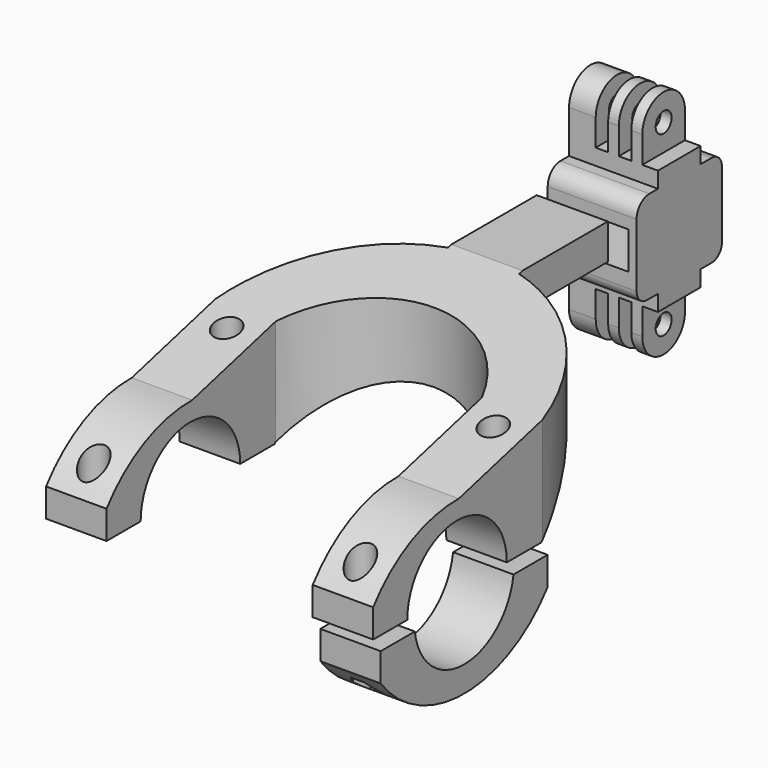
from build123d import *

# Parameters (mm, degrees)
PAD001_DEPTH    = 46
PAD002_DEPTH    = 46
POCKET002_DEPTH = 40
SKETCH004_R     = 2.3
POCKET003_DEPTH = 25
SKETCH005_R     = 3.7
POCKET004_DEPTH = 35
SKETCH014_R     = 3.7
POCKET010_DEPTH = 12
PAD_DEPTH       = 17
POCKET_DEPTH    = 25
SKETCH002_R     = 2.3
POCKET001_DEPTH = 5
SKETCH008_R     = 2.8
PAD003_DEPTH    = 12.5
SKETCH015_W     = 20.5
SKETCH015_H     = 10.5
SKETCH015_W_2   = 3.5
SKETCH015_H_2   = 15
SKETCH015_W_3   = 15
POCKET011_DEPTH = 15
POCKET012_DEPTH = 3.5


with BuildPart() as obj1:
    # Sketch003 → Pad001 (new body, symmetric)
    with BuildSketch(Plane.YZ):
        with BuildLine():
            ThreePointArc((17.5, 0), (0, 17.5), (-17.5, 0))
            Line((-17.5, 0), (-29.5, 0))
            Line((-29.5, 0), (-29.5, 8))
            ThreePointArc((29.5, 8), (0, 22.667289), (-29.5, 8))
            Line((29.5, 0), (29.5, 8))
            Line((17.5, 0), (29.5, 0))
        make_face()
    extrude(amount=PAD001_DEPTH, both=True)

    # Sketch006 → Pad002 (join, symmetric)
    with BuildSketch(Plane.YZ):
        Polygon((0, 22.5), (29.5, 0), (68, 30), (98, 30), (98, 40), (68, 40), align=None)
    extrude(amount=PAD002_DEPTH, both=True)

    # Sketch007 → Pocket002 (cut)
    with BuildSketch(Plane.XY.offset(40)):
        with BuildLine():
            Line((29, 30), (29, -29.5))
            Line((29, -29.5), (-29, -29.5))
            Line((-29, -29.5), (-29, 30))
            ThreePointArc((29, 30), (0, 49.38471), (-29, 30))
        make_face()
        with BuildLine():
            ThreePointArc((46, 30), (33.502708, 53.780613), (10, 66.793013))
            Line((10, 66.793013), (10, 95))
            Line((10, 95), (10, 103))
            Line((10, 103), (46, 103))
            Line((46, 103), (46, 30))
        make_face()
        with BuildLine():
            Line((-10, 66.793013), (-10, 95))
            Line((-10, 95), (-10, 103))
            Line((-10, 103), (-46, 103))
            Line((-46, 103), (-46, 30))
            ThreePointArc((-10, 66.793013), (-33.502708, 53.780613), (-46, 30))
        make_face()
    extrude(amount=-POCKET002_DEPTH, mode=Mode.SUBTRACT)

    # Sketch004 → Pocket003 (cut)
    with BuildSketch(Plane.XY):
        with Locations((37.5, 23.35)):
            Circle(SKETCH004_R)
        with Locations((37.5, -23.35)):
            Circle(SKETCH004_R)
        with Locations((-37.5, 23.35)):
            Circle(SKETCH004_R)
        with Locations((-37.5, -23.35)):
            Circle(SKETCH004_R)
    extrude(amount=POCKET003_DEPTH, mode=Mode.SUBTRACT)

    # Sketch005 → Pocket004 (cut)
    with BuildSketch(Plane.XY.offset(6)):
        with Locations((-37.5, -23.35)):
            Circle(SKETCH005_R)
        with Locations((37.5, -23.35)):
            Circle(SKETCH005_R)
    extrude(amount=POCKET004_DEPTH, mode=Mode.SUBTRACT)

    # Sketch014 → Pocket010 (cut)
    with BuildSketch(Plane.XY.offset(18)):
        with Locations((-37.5, 23.35)):
            Circle(SKETCH014_R)
        with Locations((37.5, 23.35)):
            Circle(SKETCH014_R)
    extrude(amount=POCKET010_DEPTH, mode=Mode.SUBTRACT)


with BuildPart() as obj2:
    # Sketch → Pad (new body)
    with BuildSketch(Plane.YZ.offset(31)):
        with BuildLine():
            ThreePointArc((-17.35, -2.286373), (0, -17.5), (17.35, -2.286373))
            Line((17.35, -2.286373), (29.35, -2.286373))
            Line((29.35, -2.286373), (29.35, -10.286373))
            ThreePointArc((-29.35, -10.286373), (0, -24.756892), (29.35, -10.286373))
            Line((-29.35, -2.286373), (-29.35, -10.286373))
            Line((-29.35, -2.286373), (-17.35, -2.286373))
        make_face()
    extrude(amount=PAD_DEPTH)

    # Sketch001 → Pocket (cut)
    with BuildSketch(Plane.XY.offset(-7)):
        Polygon((43.6, 23.35), (41.55, 26.900704), (37.45, 26.900704), (35.4, 23.35), (37.45, 19.799296), (41.55, 19.799296), align=None)
        Polygon((43.6, -23.35), (41.55, -19.799296), (37.45, -19.799296), (35.4, -23.35), (37.45, -26.900704), (41.55, -26.900704), align=None)
    extrude(amount=-POCKET_DEPTH, mode=Mode.SUBTRACT)

    # Sketch002 → Pocket001 (cut)
    with BuildSketch(Plane.XY.offset(-2)):
        with Locations((39.5, 23.35)):
            Circle(SKETCH002_R)
        with Locations((39.5, -23.35)):
            Circle(SKETCH002_R)
    extrude(amount=-POCKET001_DEPTH, mode=Mode.SUBTRACT)


with BuildPart() as obj3:
    # Sketch008 → Pad003 (new body, symmetric)
    with BuildSketch(Plane.YZ):
        with BuildLine():
            Line((7.5, 25), (7.5, 13))
            Line((7.5, 13), (11.37695, 13))
            ThreePointArc((15, 9.37695), (13.938833, 11.938833), (11.37695, 13))
            Line((15, 9.37695), (15, -9.413986))
            ThreePointArc((11.413986, -13), (13.949681, -11.949681), (15, -9.413986))
            Line((11.413986, -13), (7.5, -13))
            Line((7.5, -13), (7.5, -25))
            ThreePointArc((-7.5, -25), (0, -32.5), (7.5, -25))
            Line((-7.5, -25), (-7.5, -13))
            Line((-7.5, -13), (-11.323412, -13))
            ThreePointArc((-15, -9.323412), (-13.923152, -11.923152), (-11.323412, -13))
            Line((-15, -9.323412), (-15, 8.497963))
            ThreePointArc((-10.497963, 13), (-13.681384, 11.681384), (-15, 8.497963))
            Line((-10.497963, 13), (-7.5, 13))
            Line((-7.5, 13), (-7.5, 25))
            ThreePointArc((7.5, 25), (0, 32.5), (-7.5, 25))
        make_face()
        with Locations((0, 25)):
            Circle(SKETCH008_R, mode=Mode.SUBTRACT)
        with Locations((0, -25)):
            Circle(SKETCH008_R, mode=Mode.SUBTRACT)
    extrude(amount=PAD003_DEPTH, both=True)

    # Sketch015 → Pocket011 (cut, symmetric)
    with BuildSketch(Plane.XZ):
        Rectangle(SKETCH015_W, SKETCH015_H)
        with Locations((3.25, 25)):
            Rectangle(SKETCH015_W_2, SKETCH015_H_2)
        with Locations((15.6, 25)):
            Rectangle(SKETCH015_W_3, SKETCH015_H_2)
        with Locations((-3.25, 25)):
            Rectangle(SKETCH015_W_2, SKETCH015_H_2)
        with Locations((3.25, -25)):
            Rectangle(SKETCH015_W_2, SKETCH015_H_2)
        with Locations((15.6, -25)):
            Rectangle(SKETCH015_W_3, SKETCH015_H_2)
        with Locations((-3.25, -25)):
            Rectangle(SKETCH015_W_2, SKETCH015_H_2)
    extrude(amount=POCKET011_DEPTH, both=True, mode=Mode.SUBTRACT)

    # Sketch016 → Pocket012 (cut)
    with BuildSketch(Plane.YZ.offset(-12.5)):
        Polygon((-2.45, 20.756476), (2.45, 20.756476), (4.9, 25), (2.45, 29.243524), (-2.45, 29.243524), (-4.9, 25), align=None)
        Polygon((2.45, -20.756476), (-2.45, -20.756476), (-4.9, -25), (-2.45, -29.243524), (2.45, -29.243524), (4.9, -25), align=None)
    extrude(amount=POCKET012_DEPTH, mode=Mode.SUBTRACT)


with BuildPart() as obj3_1:
    # Body002 placement: moved
    add(obj3.part.moved(Location((0, 120, 30))))


solid = Compound([obj1.part, obj2.part, obj3_1.part])
